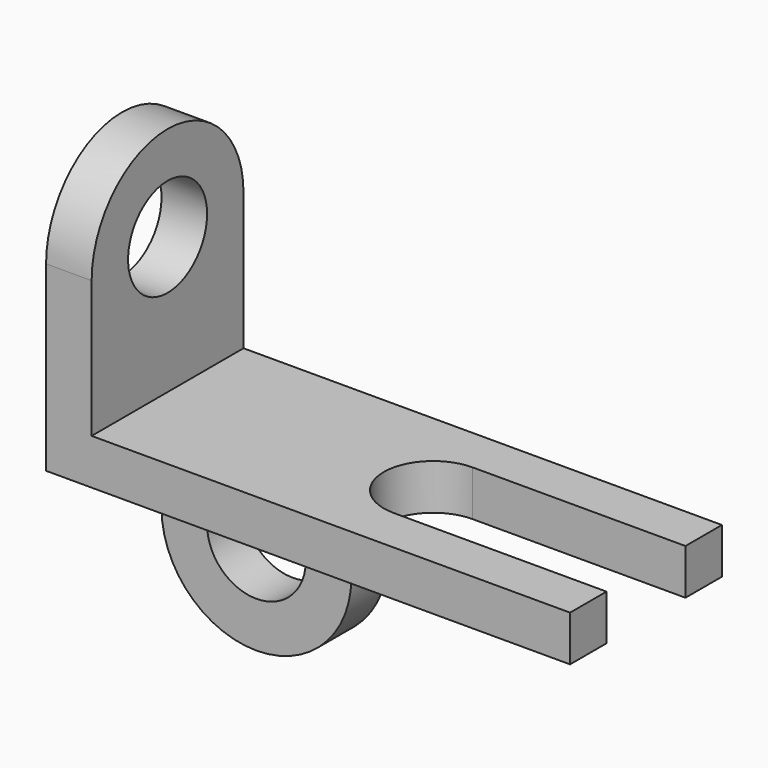
from build123d import *

# Parameters (mm, degrees)
F1_DEPTH = 152.4
F3_R     = 165.1
F4_DEPTH = 152.4
F6_R     = 165.1
F7_DEPTH = 152.4


with BuildPart() as f1:
    # F0 (on Top) → F1 (new body)
    with BuildSketch(Plane.XY):
        with BuildLine():
            Line((0, 635), (0, 0))
            Line((0, 0), (1752.6, 0))
            Line((1752.6, 0), (1752.6, 152.4))
            Line((1752.6, 152.4), (1040.841937, 152.4))
            ThreePointArc((1040.841937, 152.4), (875.741937, 317.5), (1040.841937, 482.6))
            Line((1040.841937, 482.6), (1752.6, 482.6))
            Line((1752.6, 482.6), (1752.6, 635))
            Line((1752.6, 635), (0, 635))
        make_face()
    extrude(amount=F1_DEPTH)

    # F3 (on offset) → F4 (join)
    with BuildSketch(Plane.YZ.offset(152.4)):
        with BuildLine():
            Line((0, 609.6), (0, 152.4))
            Line((0, 152.4), (635, 152.4))
            Line((635, 152.4), (635, 609.6))
            ThreePointArc((635, 609.6), (317.5, 927.1), (0, 609.6))
        make_face()
        with Locations((317.5, 609.6)):
            Circle(F3_R, mode=Mode.SUBTRACT)
    extrude(amount=-F4_DEPTH)

    # F6 (on offset) → F7 (join)
    with BuildSketch(Plane.XZ.offset(-635)):
        with BuildLine():
            Line((635, 0), (0, 0))
            Line((0, 0), (0, -304.8))
            ThreePointArc((0, -304.8), (317.5, -622.3), (635, -304.8))
            Line((635, -304.8), (635, 0))
        make_face()
        with Locations((317.5, -304.8)):
            Circle(F6_R, mode=Mode.SUBTRACT)
    extrude(amount=F7_DEPTH)


solid = f1.part
